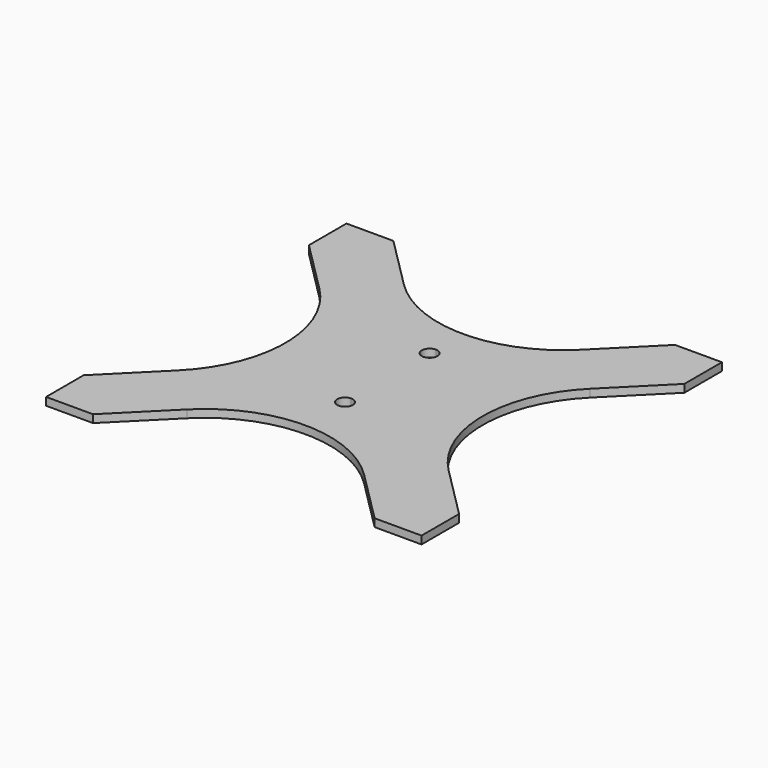
from build123d import *

# Parameters (mm, degrees)
F0_W     = 508
F0_H     = 508
F1_DEPTH = 3.175
F3_DEPTH = 3.176
F4_R     = 50.8
F6_DEPTH = 3.176
F7_R     = 1.5875
F8_DEPTH = 3.176


with BuildPart() as f1:
    # F0 (on Top) → F1 (new body)
    with BuildSketch(Plane.XY):
        Rectangle(F0_W, F0_H)
    extrude(amount=F1_DEPTH)

    # F2 (on face) → F3 (cut, through all)
    with BuildSketch(Plane.XY.offset(3.175)):
        Polygon((-19.05, 0), (-254, 234.95), (-254, -234.95), align=None)
        Polygon((-234.95, 254), (0, 19.05), (234.95, 254), align=None)
        Polygon((254, -234.95), (254, 234.95), (19.05, 0), align=None)
        Polygon((-234.95, -254), (234.95, -254), (0, -19.05), align=None)
    extrude(amount=-F3_DEPTH, mode=Mode.SUBTRACT)

    # F4
    f4_edges = [f1.edges().sort_by_distance(p)[0] for p in [
        (-19.05, 0, 1.5875),
        (0, -19.05, 1.5875),
        (19.05, 0, 1.5875),
        (0, 19.05, 1.5875),
    ]]
    fillet(f4_edges, radius=F4_R)

    # F5 (on face) → F6 (cut, through all)
    with BuildSketch(Plane(origin=(0, 0, 0), x_dir=(1, 0, 0), z_dir=(0, 0, -1))):
        with BuildLine():
            ThreePointArc((-235.2896751078, -247.0952381308), (-235.8602181666, -247.0987727715), (-236.3926626451, -247.3037965579))
            Line((-236.3926626451, -247.3037965579), (-235.5652720105, -248.6586327059))
            Line((-235.5652720105, -248.6586327059), (-235.2896751078, -247.0952381308))
        make_face()
        with BuildLine():
            Line((-235.5652720105, -248.6586327059), (-236.3926626451, -247.3037965579))
            ThreePointArc((-236.3926626451, -247.3037965579), (-236.8182319942, -247.6838262999), (-237.0819548651, -248.189773059))
            Line((-237.0819548651, -248.189773059), (-235.5652720105, -248.6586327059))
        make_face()
        with BuildLine():
            ThreePointArc((-233.9777720105, -248.6586327059), (-234.3491991646, -247.6381803143), (-235.2896751078, -247.0952381308))
            Line((-235.2896751078, -247.0952381308), (-235.5652720105, -248.6586327059))
            Line((-235.5652720105, -248.6586327059), (-237.0819548651, -248.189773059))
            ThreePointArc((-237.0819548651, -248.189773059), (-235.8023608316, -250.2283285811), (-233.9777720105, -248.6586327059))
        make_face()
        with BuildLine():
            Line((-247.6987348476, -244.9077555312), (-247.423137945, -243.3443609562))
            ThreePointArc((-247.423137945, -243.3443609562), (-249.0535709955, -245.7351461659), (-246.182051993, -245.376615178))
            Line((-246.182051993, -245.376615178), (-247.6987348476, -244.9077555312))
        make_face()
        with BuildLine():
            ThreePointArc((-244.6665689917, -233.7554350788), (-244.2409996426, -233.3754053369), (-243.9772767717, -232.8694585778))
            Line((-243.9772767717, -232.8694585778), (-245.4939596263, -232.4005989309))
            Line((-245.4939596263, -232.4005989309), (-244.6665689917, -233.7554350788))
        make_face()
        with BuildLine():
            ThreePointArc((-245.769556529, -233.963993506), (-245.1990134701, -233.9604588653), (-244.6665689917, -233.7554350788))
            Line((-244.6665689917, -233.7554350788), (-245.4939596263, -232.4005989309))
            Line((-245.4939596263, -232.4005989309), (-245.769556529, -233.963993506))
        make_face()
        with BuildLine():
            Line((-245.4939596263, -232.4005989309), (-243.9772767717, -232.8694585778))
            ThreePointArc((-243.9772767717, -232.8694585778), (-243.9242637511, -232.6376877521), (-243.9064596263, -232.4005989309))
            ThreePointArc((-243.9064596263, -232.4005989309), (-246.5144120179, -231.1845260851), (-245.769556529, -233.963993506))
            Line((-245.769556529, -233.963993506), (-245.4939596263, -232.4005989309))
        make_face()
        with BuildLine():
            ThreePointArc((-231.7729967892, -236.1514761056), (-233.123407968, -234.5817802303), (-234.8771796438, -235.6826164588))
            Line((-234.8771796438, -235.6826164588), (-233.3604967892, -236.1514761056))
            Line((-233.3604967892, -236.1514761056), (-233.6360936918, -237.7148706806))
            ThreePointArc((-233.6360936918, -237.7148706806), (-232.3400443976, -237.3675489515), (-231.7729967892, -236.1514761056))
        make_face()
        with BuildLine():
            Line((-233.3604967892, -236.1514761056), (-234.8771796438, -235.6826164588))
            ThreePointArc((-234.8771796438, -235.6826164588), (-234.7153329371, -236.9788667402), (-233.6360936918, -237.7148706806))
            Line((-233.6360936918, -237.7148706806), (-233.3604967892, -236.1514761056))
        make_face()
        with BuildLine():
            ThreePointArc((-246.1112348476, -244.9077555312), (-246.4826620017, -243.8873031396), (-247.423137945, -243.3443609562))
            Line((-247.423137945, -243.3443609562), (-247.6987348476, -244.9077555312))
            Line((-247.6987348476, -244.9077555312), (-246.182051993, -245.376615178))
            ThreePointArc((-246.182051993, -245.376615178), (-246.1290389723, -245.1448443524), (-246.1112348476, -244.9077555312))
        make_face()
        with BuildLine():
            Line((-233.3604967892, 244.9077555312), (-233.6360936918, 243.3443609562))
            ThreePointArc((-233.6360936918, 243.3443609562), (-232.3400443976, 243.6916826853), (-231.7729967892, 244.9077555312))
            ThreePointArc((-231.7729967892, 244.9077555312), (-233.123407968, 246.4774514065), (-234.8771796438, 245.376615178))
            Line((-234.8771796438, 245.376615178), (-233.3604967892, 244.9077555312))
        make_face()
        with BuildLine():
            ThreePointArc((-234.8771796438, 245.376615178), (-234.7153329371, 244.0803648965), (-233.6360936918, 243.3443609562))
            Line((-233.6360936918, 243.3443609562), (-233.3604967892, 244.9077555312))
            Line((-233.3604967892, 244.9077555312), (-234.8771796438, 245.376615178))
        make_face()
        with BuildLine():
            Line((-245.4939596263, 248.6586327059), (-244.6665689917, 247.3037965579))
            ThreePointArc((-244.6665689917, 247.3037965579), (-244.2409996426, 247.6838262999), (-243.9772767717, 248.189773059))
            Line((-243.9772767717, 248.189773059), (-245.4939596263, 248.6586327059))
        make_face()
        with BuildLine():
            ThreePointArc((-245.769556529, 247.0952381308), (-245.1990134701, 247.0987727715), (-244.6665689917, 247.3037965579))
            Line((-244.6665689917, 247.3037965579), (-245.4939596263, 248.6586327059))
            Line((-245.4939596263, 248.6586327059), (-245.769556529, 247.0952381308))
        make_face()
        with BuildLine():
            ThreePointArc((-243.9064596263, 248.6586327059), (-246.5144120179, 249.8747055517), (-245.769556529, 247.0952381308))
            Line((-245.769556529, 247.0952381308), (-245.4939596263, 248.6586327059))
            Line((-245.4939596263, 248.6586327059), (-243.9772767717, 248.189773059))
            ThreePointArc((-243.9772767717, 248.189773059), (-243.9242637511, 248.4215438847), (-243.9064596263, 248.6586327059))
        make_face()
        with BuildLine():
            ThreePointArc((-246.1112348476, 236.1514761056), (-246.4826620017, 237.1719284972), (-247.423137945, 237.7148706806))
            Line((-247.423137945, 237.7148706806), (-247.6987348476, 236.1514761056))
            Line((-247.6987348476, 236.1514761056), (-246.182051993, 235.6826164588))
            ThreePointArc((-246.182051993, 235.6826164588), (-246.1290389723, 235.9143872844), (-246.1112348476, 236.1514761056))
        make_face()
        with BuildLine():
            Line((-247.6987348476, 236.1514761056), (-247.423137945, 237.7148706806))
            ThreePointArc((-247.423137945, 237.7148706806), (-249.0535709955, 235.3240854709), (-246.182051993, 235.6826164588))
            Line((-246.182051993, 235.6826164588), (-247.6987348476, 236.1514761056))
        make_face()
        with BuildLine():
            ThreePointArc((-233.9777720105, 232.4005989309), (-234.3491991646, 233.4210513225), (-235.2896751078, 233.963993506))
            Line((-235.2896751078, 233.963993506), (-235.5652720105, 232.4005989309))
            Line((-235.5652720105, 232.4005989309), (-237.0819548651, 232.8694585778))
            ThreePointArc((-237.0819548651, 232.8694585778), (-235.8023608316, 230.8309030557), (-233.9777720105, 232.4005989309))
        make_face()
        with BuildLine():
            Line((-235.5652720105, 232.4005989309), (-235.2896751078, 233.963993506))
            ThreePointArc((-235.2896751078, 233.963993506), (-235.8602181666, 233.9604588653), (-236.3926626451, 233.7554350788))
            Line((-236.3926626451, 233.7554350788), (-235.5652720105, 232.4005989309))
        make_face()
        with BuildLine():
            Line((-235.5652720105, 232.4005989309), (-236.3926626451, 233.7554350788))
            ThreePointArc((-236.3926626451, 233.7554350788), (-236.8182319942, 233.3754053369), (-237.0819548651, 232.8694585778))
            Line((-237.0819548651, 232.8694585778), (-235.5652720105, 232.4005989309))
        make_face()
        with BuildLine():
            Line((247.6987348476, 244.9077555312), (247.423137945, 243.3443609562))
            ThreePointArc((247.423137945, 243.3443609562), (248.7191872392, 243.6916826853), (249.2862348476, 244.9077555312))
            ThreePointArc((249.2862348476, 244.9077555312), (247.9358236688, 246.4774514065), (246.182051993, 245.376615178))
            Line((246.182051993, 245.376615178), (247.6987348476, 244.9077555312))
        make_face()
        with BuildLine():
            ThreePointArc((246.182051993, 245.376615178), (246.3438986997, 244.0803648965), (247.423137945, 243.3443609562))
            Line((247.423137945, 243.3443609562), (247.6987348476, 244.9077555312))
            Line((247.6987348476, 244.9077555312), (246.182051993, 245.376615178))
        make_face()
        with BuildLine():
            ThreePointArc((245.769556529, 233.963993506), (245.1990134701, 233.9604588653), (244.6665689917, 233.7554350788))
            Line((244.6665689917, 233.7554350788), (245.4939596263, 232.4005989309))
            Line((245.4939596263, 232.4005989309), (245.769556529, 233.963993506))
        make_face()
        with BuildLine():
            Line((245.4939596263, 232.4005989309), (243.9772767717, 232.8694585778))
            ThreePointArc((243.9772767717, 232.8694585778), (245.2568708052, 230.8309030557), (247.0814596263, 232.4005989309))
            ThreePointArc((247.0814596263, 232.4005989309), (246.7100324722, 233.4210513225), (245.769556529, 233.963993506))
            Line((245.769556529, 233.963993506), (245.4939596263, 232.4005989309))
        make_face()
        with BuildLine():
            ThreePointArc((244.6665689917, 233.7554350788), (244.2409996426, 233.3754053369), (243.9772767717, 232.8694585778))
            Line((243.9772767717, 232.8694585778), (245.4939596263, 232.4005989309))
            Line((245.4939596263, 232.4005989309), (244.6665689917, 233.7554350788))
        make_face()
        with BuildLine():
            ThreePointArc((233.6360936918, 237.7148706806), (232.0056606413, 235.3240854709), (234.8771796438, 235.6826164588))
            Line((234.8771796438, 235.6826164588), (233.3604967892, 236.1514761056))
            Line((233.3604967892, 236.1514761056), (233.6360936918, 237.7148706806))
        make_face()
        with BuildLine():
            Line((233.3604967892, 236.1514761056), (234.8771796438, 235.6826164588))
            ThreePointArc((234.8771796438, 235.6826164588), (234.9301926645, 235.9143872844), (234.9479967892, 236.1514761056))
            ThreePointArc((234.9479967892, 236.1514761056), (234.5765696351, 237.1719284972), (233.6360936918, 237.7148706806))
            Line((233.6360936918, 237.7148706806), (233.3604967892, 236.1514761056))
        make_face()
        with BuildLine():
            ThreePointArc((235.2896751078, 247.0952381308), (235.8602181666, 247.0987727715), (236.3926626451, 247.3037965579))
            Line((236.3926626451, 247.3037965579), (235.5652720105, 248.6586327059))
            Line((235.5652720105, 248.6586327059), (235.2896751078, 247.0952381308))
        make_face()
        with BuildLine():
            Line((235.5652720105, 248.6586327059), (236.3926626451, 247.3037965579))
            ThreePointArc((236.3926626451, 247.3037965579), (236.8182319942, 247.6838262999), (237.0819548651, 248.189773059))
            Line((237.0819548651, 248.189773059), (235.5652720105, 248.6586327059))
        make_face()
        with BuildLine():
            ThreePointArc((237.1527720105, 248.6586327059), (234.5448196189, 249.8747055517), (235.2896751078, 247.0952381308))
            Line((235.2896751078, 247.0952381308), (235.5652720105, 248.6586327059))
            Line((235.5652720105, 248.6586327059), (237.0819548651, 248.189773059))
            ThreePointArc((237.0819548651, 248.189773059), (237.1349678857, 248.4215438847), (237.1527720105, 248.6586327059))
        make_face()
        with BuildLine():
            ThreePointArc((247.0814596263, -248.6586327059), (246.7100324722, -247.6381803143), (245.769556529, -247.0952381308))
            Line((245.769556529, -247.0952381308), (245.4939596263, -248.6586327059))
            Line((245.4939596263, -248.6586327059), (243.9772767717, -248.189773059))
            ThreePointArc((243.9772767717, -248.189773059), (245.2568708052, -250.2283285811), (247.0814596263, -248.6586327059))
        make_face()
        with BuildLine():
            Line((245.4939596263, -248.6586327059), (244.6665689917, -247.3037965579))
            ThreePointArc((244.6665689917, -247.3037965579), (244.2409996426, -247.6838262999), (243.9772767717, -248.189773059))
            Line((243.9772767717, -248.189773059), (245.4939596263, -248.6586327059))
        make_face()
        with BuildLine():
            ThreePointArc((245.769556529, -247.0952381308), (245.1990134701, -247.0987727715), (244.6665689917, -247.3037965579))
            Line((244.6665689917, -247.3037965579), (245.4939596263, -248.6586327059))
            Line((245.4939596263, -248.6586327059), (245.769556529, -247.0952381308))
        make_face()
        with BuildLine():
            ThreePointArc((234.9479967892, -244.9077555312), (234.5765696351, -243.8873031396), (233.6360936918, -243.3443609562))
            Line((233.6360936918, -243.3443609562), (233.3604967892, -244.9077555312))
            Line((233.3604967892, -244.9077555312), (234.8771796438, -245.376615178))
            ThreePointArc((234.8771796438, -245.376615178), (234.9301926645, -245.1448443524), (234.9479967892, -244.9077555312))
        make_face()
        with BuildLine():
            Line((233.3604967892, -244.9077555312), (233.6360936918, -243.3443609562))
            ThreePointArc((233.6360936918, -243.3443609562), (232.0056606413, -245.7351461659), (234.8771796438, -245.376615178))
            Line((234.8771796438, -245.376615178), (233.3604967892, -244.9077555312))
        make_face()
        with BuildLine():
            Line((235.5652720105, -232.4005989309), (235.2896751078, -233.963993506))
            ThreePointArc((235.2896751078, -233.963993506), (235.8602181666, -233.9604588653), (236.3926626451, -233.7554350788))
            Line((236.3926626451, -233.7554350788), (235.5652720105, -232.4005989309))
        make_face()
        with BuildLine():
            Line((235.5652720105, -232.4005989309), (236.3926626451, -233.7554350788))
            ThreePointArc((236.3926626451, -233.7554350788), (236.8182319942, -233.3754053369), (237.0819548651, -232.8694585778))
            Line((237.0819548651, -232.8694585778), (235.5652720105, -232.4005989309))
        make_face()
        with BuildLine():
            ThreePointArc((237.1527720105, -232.4005989309), (234.5448196189, -231.1845260851), (235.2896751078, -233.963993506))
            Line((235.2896751078, -233.963993506), (235.5652720105, -232.4005989309))
            Line((235.5652720105, -232.4005989309), (237.0819548651, -232.8694585778))
            ThreePointArc((237.0819548651, -232.8694585778), (237.1349678857, -232.6376877521), (237.1527720105, -232.4005989309))
        make_face()
        with BuildLine():
            ThreePointArc((246.182051993, -235.6826164588), (246.3438986997, -236.9788667402), (247.423137945, -237.7148706806))
            Line((247.423137945, -237.7148706806), (247.6987348476, -236.1514761056))
            Line((247.6987348476, -236.1514761056), (246.182051993, -235.6826164588))
        make_face()
        with BuildLine():
            Line((247.6987348476, -236.1514761056), (247.423137945, -237.7148706806))
            ThreePointArc((247.423137945, -237.7148706806), (248.7191872392, -237.3675489515), (249.2862348476, -236.1514761056))
            ThreePointArc((249.2862348476, -236.1514761056), (247.9358236688, -234.5817802303), (246.182051993, -235.6826164588))
            Line((246.182051993, -235.6826164588), (247.6987348476, -236.1514761056))
        make_face()
        with BuildLine():
            Line((0, 22.9821543127), (0, 16.6321543127))
            ThreePointArc((0, 16.6321543127), (2.2450640303, 17.5620902825), (3.175, 19.8071543127))
            ThreePointArc((3.175, 19.8071543127), (2.2450640303, 22.052218343), (0, 22.9821543127))
        make_face()
        with BuildLine():
            Line((0, -26.339305836), (0, -19.989305836))
            ThreePointArc((0, -19.989305836), (-3.175, -23.164305836), (0, -26.339305836))
        make_face()
        with BuildLine():
            ThreePointArc((3.175, -23.164305836), (2.2450640303, -20.9192418057), (0, -19.989305836))
            Line((0, -19.989305836), (0, -26.339305836))
            ThreePointArc((0, -26.339305836), (2.2450640303, -25.4093698662), (3.175, -23.164305836))
        make_face()
        with BuildLine():
            ThreePointArc((0, 22.9821543127), (-3.175, 19.8071543127), (0, 16.6321543127))
            Line((0, 16.6321543127), (0, 22.9821543127))
        make_face()
    extrude(amount=-F6_DEPTH, mode=Mode.SUBTRACT)

    # F7 (on face) → F8 (cut, through all)
    with BuildSketch(Plane.XY.offset(3.175)):
        Polygon((-76.2, 76.2), (-57.15, 76.2), (-234.95, 254), (-254, 254), (-254, 234.95), (-76.2, 57.15), align=None)
        with Locations((-245.4939596263, 232.4005989309)):
            Circle(F7_R, mode=Mode.SUBTRACT)
        with Locations((-233.3604967892, 236.1514761056)):
            Circle(F7_R, mode=Mode.SUBTRACT)
        with Locations((-247.6987348476, 244.9077555312)):
            Circle(F7_R, mode=Mode.SUBTRACT)
        with Locations((-235.5652720105, 248.6586327059)):
            Circle(F7_R, mode=Mode.SUBTRACT)
        Polygon((57.15, 76.2), (76.2, 76.2), (76.2, 57.15), (254, 234.95), (254, 254), (234.95, 254), align=None)
        with Locations((235.5652720105, 232.4005989309)):
            Circle(F7_R, mode=Mode.SUBTRACT)
        with Locations((247.6987348476, 236.1514761056)):
            Circle(F7_R, mode=Mode.SUBTRACT)
        with Locations((233.3604967892, 244.9077555312)):
            Circle(F7_R, mode=Mode.SUBTRACT)
        with Locations((245.4939596263, 248.6586327059)):
            Circle(F7_R, mode=Mode.SUBTRACT)
        Polygon((254, -234.95), (76.2, -57.15), (76.2, -76.2), (57.15, -76.2), (234.95, -254), (254, -254), align=None)
        with Locations((235.5652720105, -248.6586327059)):
            Circle(F7_R, mode=Mode.SUBTRACT)
        with Locations((247.6987348476, -244.9077555312)):
            Circle(F7_R, mode=Mode.SUBTRACT)
        with Locations((233.3604967892, -236.1514761056)):
            Circle(F7_R, mode=Mode.SUBTRACT)
        with Locations((245.4939596263, -232.4005989309)):
            Circle(F7_R, mode=Mode.SUBTRACT)
        Polygon((-76.2, -76.2), (-76.2, -57.15), (-254, -234.95), (-254, -254), (-234.95, -254), (-57.15, -76.2), align=None)
        with Locations((-245.4939596263, -248.6586327059)):
            Circle(F7_R, mode=Mode.SUBTRACT)
        with Locations((-233.3604967892, -244.9077555312)):
            Circle(F7_R, mode=Mode.SUBTRACT)
        with Locations((-247.6987348476, -236.1514761056)):
            Circle(F7_R, mode=Mode.SUBTRACT)
        with Locations((-235.5652720105, -232.4005989309)):
            Circle(F7_R, mode=Mode.SUBTRACT)
    extrude(amount=-F8_DEPTH, mode=Mode.SUBTRACT)


solid = f1.part
